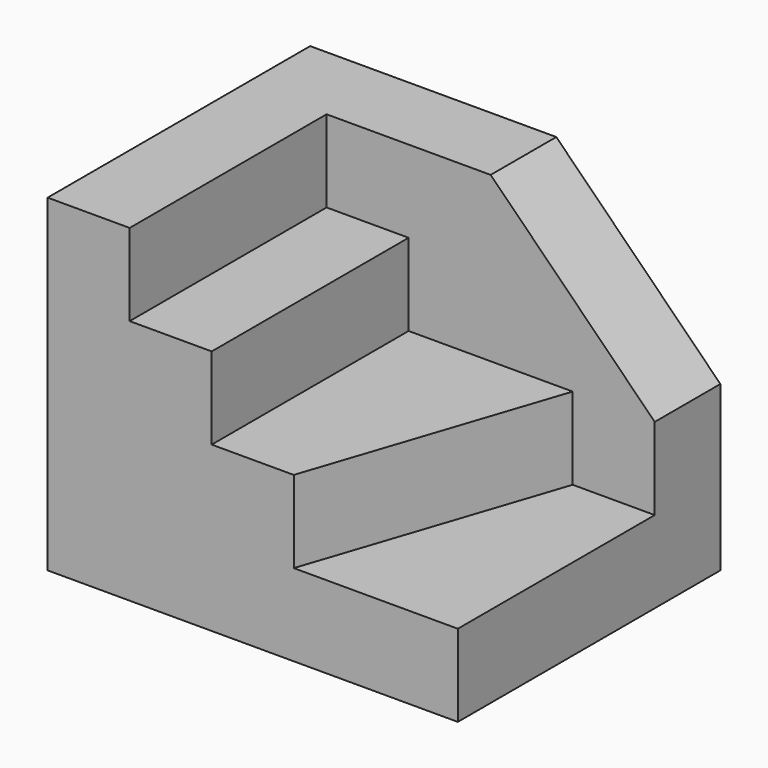
from build123d import *

# Parameters (mm, degrees)
F0_W     = 50
F0_H     = 40
F1_DEPTH = 40
F2_W     = 40
F2_H     = 30
F3_DEPTH = 30
F5_DEPTH = 10.001
F6_W     = 10
F6_H     = 30
F7_DEPTH = 20
F8_DEPTH = 10


with BuildPart() as f1:
    # F0 (on Top) → F1 (new body)
    with BuildSketch(Plane.XY):
        with Locations((25, 20)):
            Rectangle(F0_W, F0_H)
    extrude(amount=F1_DEPTH)

    # F2 (on face) → F3 (cut)
    with BuildSketch(Plane.XY.offset(40)):
        with Locations((30, 15)):
            Rectangle(F2_W, F2_H)
    extrude(amount=-F3_DEPTH, mode=Mode.SUBTRACT)

    # F4 (on face) → F5 (cut, through all)
    with BuildSketch(Plane.XZ.offset(-30)):
        Polygon((50, 40), (30, 40), (50, 20), align=None)
    extrude(amount=-F5_DEPTH, mode=Mode.SUBTRACT)

    # F6 (on face) → F7 (join)
    with BuildSketch(Plane.XY.offset(10)):
        with Locations((15, 15)):
            Rectangle(F6_W, F6_H)
    extrude(amount=F7_DEPTH)

    # F6 (on face) → F8 (join)
    with BuildSketch(Plane.XY.offset(10)):
        Polygon((40, 30), (20, 30), (20, 0), (30, 0), align=None)
    extrude(amount=F8_DEPTH)


solid = f1.part
